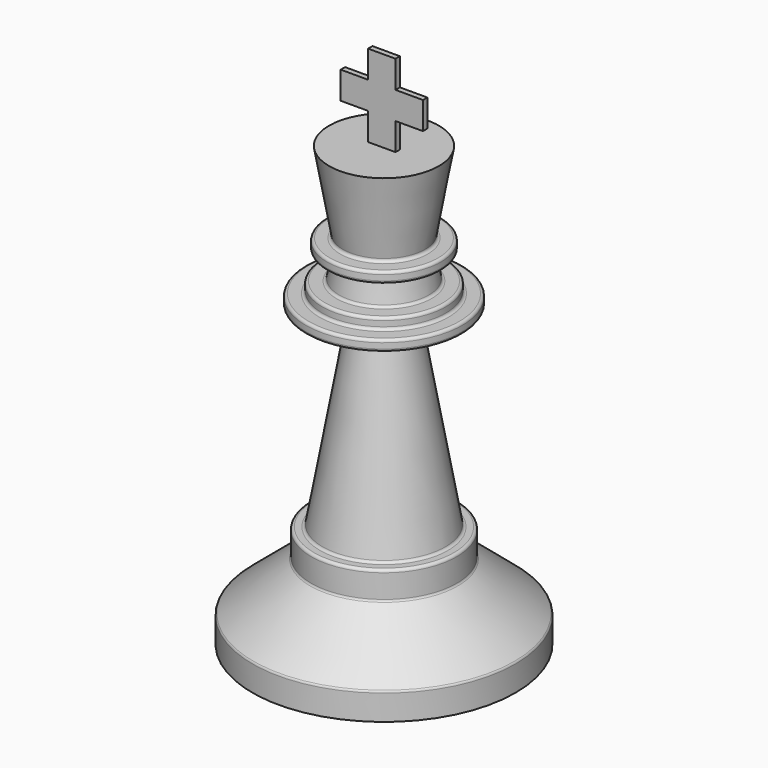
from build123d import *

# Parameters (mm, degrees)
F3_DEPTH = 0.3175


with BuildPart() as f2:
    # F0 (on Front) → F2 (revolve)
    with BuildSketch(Plane.XZ):
        with BuildLine():
            Line((-15.24, 0), (0, 0))
            Line((0, 0), (0, 50.8))
            Line((0, 50.8), (-6.35, 50.8))
            Line((-6.35, 50.8), (-4.7617064118, 41.792339449))
            ThreePointArc((-4.7617064118, 41.792339449), (-4.8311637627, 41.5331210865), (-5.0743828734, 41.4197061526))
            Line((-5.0743828734, 41.4197061526), (-6.2835011077, 41.4197061526))
            ThreePointArc((-6.2835011077, 41.4197061526), (-6.5080075107, 41.3267125556), (-6.6010011077, 41.1022061526))
            Line((-6.6010011077, 41.1022061526), (-6.6010011077, 40.4672061526))
            ThreePointArc((-6.6010011077, 40.4672061526), (-6.5080075107, 40.2426997495), (-6.2835011077, 40.1497061526))
            Line((-6.2835011077, 40.1497061526), (-5.0743828734, 40.1497061526))
            ThreePointArc((-5.0743828734, 40.1497061526), (-4.8311637627, 40.0362912186), (-4.7617064118, 39.7770728561))
            Line((-4.7617064118, 39.7770728561), (-5.2010717431, 37.2853082403))
            ThreePointArc((-5.2010717431, 37.2853082403), (-5.3096631386, 37.0972224261), (-5.5137482047, 37.0229415367))
            Line((-5.5137482047, 37.0229415367), (-6.8348340718, 37.0229415367))
            ThreePointArc((-6.8348340718, 37.0229415367), (-7.0593404748, 36.9299479398), (-7.1523340718, 36.7054415367))
            Line((-7.1523340718, 36.7054415367), (-7.1523340718, 36.0704415367))
            ThreePointArc((-7.1523340718, 36.0704415367), (-7.2453276688, 35.8459351337), (-7.4698340718, 35.7529415367))
            Line((-7.4698340718, 35.7529415367), (-8.7398340718, 35.7529415367))
            ThreePointArc((-8.7398340718, 35.7529415367), (-8.9643404748, 35.6599479398), (-9.0573340718, 35.4354415367))
            Line((-9.0573340718, 35.4354415367), (-9.0573340718, 34.8004415367))
            ThreePointArc((-9.0573340718, 34.8004415367), (-8.9643404748, 34.5759351337), (-8.7398340718, 34.4829415367))
            Line((-8.7398340718, 34.4829415367), (-3.5686493249, 34.4829415367))
            ThreePointArc((-3.5686493249, 34.4829415367), (-3.3254302142, 34.3695266028), (-3.2559728633, 34.1103082403))
            Line((-3.2559728633, 34.1103082403), (-7.113602572, 12.2326030065))
            ThreePointArc((-7.113602572, 12.2326030065), (-7.2221939675, 12.0445171922), (-7.4262790336, 11.9702363029))
            Line((-7.4262790336, 11.9702363029), (-8.1123649007, 11.9702363029))
            ThreePointArc((-8.1123649007, 11.9702363029), (-8.3368713037, 11.8772427059), (-8.4298649007, 11.6527363029))
            Line((-8.4298649007, 11.6527363029), (-8.4298649007, 8.9432889844))
            ThreePointArc((-8.4298649007, 8.9432889844), (-8.4596121783, 8.8091076862), (-8.5432798346, 8.7000698737))
            Line((-8.5432798346, 8.7000698737), (-15.1265850661, 3.176020882))
            ThreePointArc((-15.1265850661, 3.176020882), (-15.2102527224, 3.0669830694), (-15.24, 2.9328017713))
            Line((-15.24, 2.9328017713), (-15.24, 0))
        make_face()
    revolve(axis=Axis((0, 0, 25.4), (0, 0, 1)))

    # F1 (on Front) → F3 (join, symmetric)
    with BuildSketch(Plane.XZ):
        Polygon((0, 50.8), (1.5875, 50.8), (1.5875, 53.975), (4.7625, 53.975), (4.7625, 57.15), (1.5875, 57.15), (1.5875, 60.325), (-1.5875, 60.325), (-1.5875, 57.15), (-4.7625, 57.15), (-4.7625, 53.975), (-1.5875, 53.975), (-1.5875, 50.8), align=None)
    extrude(amount=F3_DEPTH, both=True)


solid = f2.part
